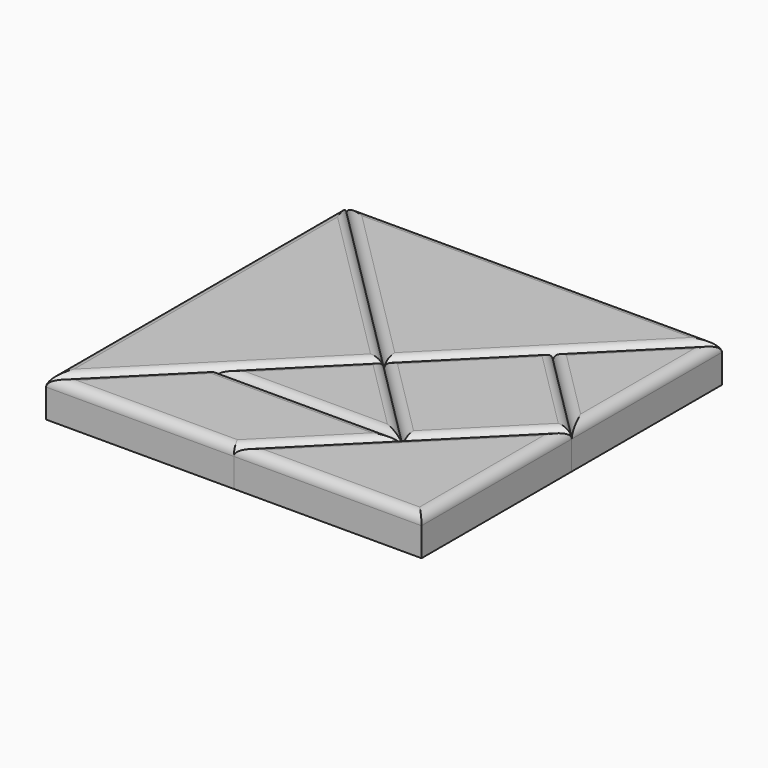
from build123d import *

# Parameters (mm, degrees)
F1_DEPTH  = 12.7
F2_DEPTH  = 12.7
F3_DEPTH  = 12.7
F4_DEPTH  = 12.7
F5_DEPTH  = 12.7
F6_DEPTH  = 12.7
F7_DEPTH  = 12.7
F8_R      = 3.175
F8_2_R    = 3.175
F8_3_R    = 3.175
F8_4_R    = 3.175
F8_5_R    = 3.175
F8_6_R    = 3.175
F8_7_R    = 3.175
F12_R     = 4
F16_DEPTH = 1
F9_R      = 4
F17_DEPTH = 1
F15_R     = 4
F18_DEPTH = 1
F10_R     = 4
F19_DEPTH = 1
F11_R     = 4
F20_DEPTH = 1
F14_R     = 4
F21_DEPTH = 1
F13_R     = 4
F22_DEPTH = 1
F23_DEPTH = 2.5


with BuildPart() as f1:
    # F0 (on Top) → F1 (new body)
    with BuildSketch(Plane.XY):
        Polygon((-62.5, 62.5), (-62.5, -62.5), (-31.25, -31.25), (0, 0), align=None)
    extrude(amount=F1_DEPTH)

    # F8
    f8_edges = [f1.edges().sort_by_distance(p)[0] for p in [
        (-31.25, 31.25, 12.7),
        (-62.5, 0, 12.7),
        (-31.25, -31.25, 12.7),
    ]]
    fillet(f8_edges, radius=F8_R)

    # F12 (on face) → F16 (cut)
    with BuildSketch(Plane(origin=(0, 0, 0), x_dir=(1, 0, 0), z_dir=(0, 0, -1))):
        with Locations((-52.5, 38.3578643763)):
            Circle(F12_R)
        with Locations((-14.1421356237, 0)):
            Circle(F12_R)
        with Locations((-52.5, -38.3578643763)):
            Circle(F12_R)
    extrude(amount=-F16_DEPTH, mode=Mode.SUBTRACT)


with BuildPart() as f2:
    # F0 (on Top) → F2 (new body)
    with BuildSketch(Plane.XY):
        Polygon((31.25, 31.25), (62.5, 62.5), (-62.5, 62.5), (0, 0), align=None)
    extrude(amount=F2_DEPTH)

    # F8#2
    f8_2_edges = [f2.edges().sort_by_distance(p)[0] for p in [
        (-31.25, 31.25, 12.7),
        (31.25, 31.25, 12.7),
        (0, 62.5, 12.7),
    ]]
    fillet(f8_2_edges, radius=F8_2_R)

    # F9 (on face) → F17 (cut)
    with BuildSketch(Plane(origin=(0, 0, 0), x_dir=(1, 0, 0), z_dir=(0, 0, -1))):
        with Locations((0, -14.1421356237)):
            Circle(F9_R)
        with Locations((-38.3578643763, -52.5)):
            Circle(F9_R)
        with Locations((38.3578643763, -52.5)):
            Circle(F9_R)
    extrude(amount=-F17_DEPTH, mode=Mode.SUBTRACT)


with BuildPart() as f3:
    # F0 (on Top) → F3 (new body)
    with BuildSketch(Plane.XY):
        Polygon((-62.5, -62.5), (0, -62.5), (31.25, -31.25), (-31.25, -31.25), align=None)
    extrude(amount=F3_DEPTH)

    # F8#3
    f8_3_edges = [f3.edges().sort_by_distance(p)[0] for p in [
        (-46.875, -46.875, 12.7),
        (-31.25, -62.5, 12.7),
        (15.625, -46.875, 12.7),
        (0, -31.25, 12.7),
    ]]
    fillet(f8_3_edges, radius=F8_3_R)

    # F14 (on face) → F21 (cut)
    with BuildSketch(Plane(origin=(0, 0, 0), x_dir=(1, 0, 0), z_dir=(0, 0, -1))):
        with Locations((-27.936291501, 39.25)):
            Circle(F14_R)
        with Locations((-43.186291501, 54.5)):
            Circle(F14_R)
        with Locations((-3.313708499, 54.5)):
            Circle(F14_R)
        with Locations((11.936291501, 39.25)):
            Circle(F14_R)
    extrude(amount=-F21_DEPTH, mode=Mode.SUBTRACT)


with BuildPart() as f4:
    # F0 (on Top) → F4 (new body)
    with BuildSketch(Plane.XY):
        Polygon((-31.25, -31.25), (31.25, -31.25), (0, 0), align=None)
    extrude(amount=F4_DEPTH)

    # F8#4
    f8_4_edges = [f4.edges().sort_by_distance(p)[0] for p in [
        (0, -31.25, 12.7),
        (15.625, -15.625, 12.7),
        (-15.625, -15.625, 12.7),
    ]]
    fillet(f8_4_edges, radius=F8_4_R)

    # F11 (on face) → F20 (cut)
    with BuildSketch(Plane(origin=(0, 0, 0), x_dir=(1, 0, 0), z_dir=(0, 0, -1))):
        with Locations((-11.936291501, 23.25)):
            Circle(F11_R)
        with Locations((0, 11.313708499)):
            Circle(F11_R)
        with Locations((11.936291501, 23.25)):
            Circle(F11_R)
    extrude(amount=-F20_DEPTH, mode=Mode.SUBTRACT)


with BuildPart() as f5:
    # F0 (on Top) → F5 (new body)
    with BuildSketch(Plane.XY):
        Polygon((31.25, -31.25), (62.5, 0), (31.25, 31.25), (0, 0), align=None)
    extrude(amount=F5_DEPTH)

    # F8#5
    f8_5_edges = [f5.edges().sort_by_distance(p)[0] for p in [
        (15.625, -15.625, 12.7),
        (46.875, -15.625, 12.7),
        (46.875, 15.625, 12.7),
        (15.625, 15.625, 12.7),
    ]]
    fillet(f8_5_edges, radius=F8_5_R)

    # F10 (on face) → F19 (cut)
    with BuildSketch(Plane(origin=(0, 0, 0), x_dir=(1, 0, 0), z_dir=(0, 0, -1))):
        with Locations((14.1421356237, 0)):
            Circle(F10_R)
        with Locations((31.25, 17.1078643763)):
            Circle(F10_R)
        with Locations((48.3578643763, 0)):
            Circle(F10_R)
        with Locations((31.25, -17.1078643763)):
            Circle(F10_R)
    extrude(amount=-F19_DEPTH, mode=Mode.SUBTRACT)


with BuildPart() as f6:
    # F0 (on Top) → F6 (new body)
    with BuildSketch(Plane.XY):
        Polygon((0, -62.5), (62.5, -62.5), (62.5, 0), (31.25, -31.25), align=None)
    extrude(amount=F6_DEPTH)

    # F8#6
    f8_6_edges = [f6.edges().sort_by_distance(p)[0] for p in [
        (31.25, -62.5, 12.7),
        (62.5, -31.25, 12.7),
        (31.25, -31.25, 12.7),
    ]]
    fillet(f8_6_edges, radius=F8_6_R)

    # F13 (on face) → F22 (cut)
    with BuildSketch(Plane(origin=(0, 0, 0), x_dir=(1, 0, 0), z_dir=(0, 0, -1))):
        with Locations((24.1421356237, 52.5)):
            Circle(F13_R)
        with Locations((52.5, 52.5)):
            Circle(F13_R)
        with Locations((52.5, 24.1421356237)):
            Circle(F13_R)
    extrude(amount=-F22_DEPTH, mode=Mode.SUBTRACT)


with BuildPart() as f7:
    # F0 (on Top) → F7 (new body)
    with BuildSketch(Plane.XY):
        Polygon((31.25, 31.25), (62.5, 0), (62.5, 62.5), align=None)
    extrude(amount=F7_DEPTH)

    # F8#7
    f8_7_edges = [f7.edges().sort_by_distance(p)[0] for p in [
        (46.875, 15.625, 12.7),
        (62.5, 31.25, 12.7),
        (46.875, 46.875, 12.7),
    ]]
    fillet(f8_7_edges, radius=F8_7_R)

    # F15 (on face) → F18 (cut)
    with BuildSketch(Plane(origin=(0, 0, 0), x_dir=(1, 0, 0), z_dir=(0, 0, -1))):
        with Locations((42.563708499, -31.25)):
            Circle(F15_R)
        with Locations((54.5, -19.313708499)):
            Circle(F15_R)
        with Locations((54.5, -43.186291501)):
            Circle(F15_R)
    extrude(amount=-F18_DEPTH, mode=Mode.SUBTRACT)


with BuildPart() as f23:
    # F23 (new): a face of the model
    f23_faces = [f1.part.faces().sort_by_distance(p)[0] for p in [
        (-52.5, -38.3578643763, 1),
    ]]
    extrude(f23_faces, amount=F23_DEPTH)


with BuildPart() as f23b:
    # F23#2 (new): a face of the model
    f23_2_faces = [f1.part.faces().sort_by_distance(p)[0] for p in [
        (-14.1421356237, 0, 1),
    ]]
    extrude(f23_2_faces, amount=F23_DEPTH)


with BuildPart() as f23c:
    # F23#3 (new): a face of the model
    f23_3_faces = [f1.part.faces().sort_by_distance(p)[0] for p in [
        (-52.5, 38.3578643763, 1),
    ]]
    extrude(f23_3_faces, amount=F23_DEPTH)


with BuildPart() as f23d:
    # F23#4 (new): a face of the model
    f23_4_faces = [f2.part.faces().sort_by_distance(p)[0] for p in [
        (-38.3578643763, 52.5, 1),
    ]]
    extrude(f23_4_faces, amount=F23_DEPTH)


with BuildPart() as f23e:
    # F23#5 (new): a face of the model
    f23_5_faces = [f2.part.faces().sort_by_distance(p)[0] for p in [
        (0, 14.1421356237, 1),
    ]]
    extrude(f23_5_faces, amount=F23_DEPTH)


with BuildPart() as f23f:
    # F23#6 (new): a face of the model
    f23_6_faces = [f2.part.faces().sort_by_distance(p)[0] for p in [
        (38.3578643763, 52.5, 1),
    ]]
    extrude(f23_6_faces, amount=F23_DEPTH)


with BuildPart() as f23g:
    # F23#7 (new): a face of the model
    f23_7_faces = [f7.part.faces().sort_by_distance(p)[0] for p in [
        (54.5, 43.186291501, 1),
    ]]
    extrude(f23_7_faces, amount=F23_DEPTH)


with BuildPart() as f23h:
    # F23#8 (new): a face of the model
    f23_8_faces = [f7.part.faces().sort_by_distance(p)[0] for p in [
        (42.563708499, 31.25, 1),
    ]]
    extrude(f23_8_faces, amount=F23_DEPTH)


with BuildPart() as f23i:
    # F23#9 (new): a face of the model
    f23_9_faces = [f7.part.faces().sort_by_distance(p)[0] for p in [
        (54.5, 19.313708499, 1),
    ]]
    extrude(f23_9_faces, amount=F23_DEPTH)


with BuildPart() as f23j:
    # F23#10 (new): a face of the model
    f23_10_faces = [f5.part.faces().sort_by_distance(p)[0] for p in [
        (48.3578643763, 0, 1),
    ]]
    extrude(f23_10_faces, amount=F23_DEPTH)


with BuildPart() as f23k:
    # F23#11 (new): a face of the model
    f23_11_faces = [f5.part.faces().sort_by_distance(p)[0] for p in [
        (31.25, 17.1078643763, 1),
    ]]
    extrude(f23_11_faces, amount=F23_DEPTH)


with BuildPart() as f23l:
    # F23#12 (new): a face of the model
    f23_12_faces = [f5.part.faces().sort_by_distance(p)[0] for p in [
        (14.1421356237, 0, 1),
    ]]
    extrude(f23_12_faces, amount=F23_DEPTH)


with BuildPart() as f23m:
    # F23#13 (new): a face of the model
    f23_13_faces = [f5.part.faces().sort_by_distance(p)[0] for p in [
        (31.25, -17.1078643763, 1),
    ]]
    extrude(f23_13_faces, amount=F23_DEPTH)


with BuildPart() as f23n:
    # F23#14 (new): a face of the model
    f23_14_faces = [f6.part.faces().sort_by_distance(p)[0] for p in [
        (52.5, -24.1421356237, 1),
    ]]
    extrude(f23_14_faces, amount=F23_DEPTH)


with BuildPart() as f23o:
    # F23#15 (new): a face of the model
    f23_15_faces = [f6.part.faces().sort_by_distance(p)[0] for p in [
        (52.5, -52.5, 1),
    ]]
    extrude(f23_15_faces, amount=F23_DEPTH)


with BuildPart() as f23p:
    # F23#16 (new): a face of the model
    f23_16_faces = [f6.part.faces().sort_by_distance(p)[0] for p in [
        (24.1421356237, -52.5, 1),
    ]]
    extrude(f23_16_faces, amount=F23_DEPTH)


with BuildPart() as f23q:
    # F23#17 (new): a face of the model
    f23_17_faces = [f3.part.faces().sort_by_distance(p)[0] for p in [
        (11.936291501, -39.25, 1),
    ]]
    extrude(f23_17_faces, amount=F23_DEPTH)


with BuildPart() as f23r:
    # F23#18 (new): a face of the model
    f23_18_faces = [f3.part.faces().sort_by_distance(p)[0] for p in [
        (-3.313708499, -54.5, 1),
    ]]
    extrude(f23_18_faces, amount=F23_DEPTH)


with BuildPart() as f23s:
    # F23#19 (new): a face of the model
    f23_19_faces = [f4.part.faces().sort_by_distance(p)[0] for p in [
        (11.936291501, -23.25, 1),
    ]]
    extrude(f23_19_faces, amount=F23_DEPTH)


with BuildPart() as f23t:
    # F23#20 (new): a face of the model
    f23_20_faces = [f4.part.faces().sort_by_distance(p)[0] for p in [
        (0, -11.313708499, 1),
    ]]
    extrude(f23_20_faces, amount=F23_DEPTH)


with BuildPart() as f23u:
    # F23#21 (new): a face of the model
    f23_21_faces = [f4.part.faces().sort_by_distance(p)[0] for p in [
        (-11.936291501, -23.25, 1),
    ]]
    extrude(f23_21_faces, amount=F23_DEPTH)


with BuildPart() as f23v:
    # F23#22 (new): a face of the model
    f23_22_faces = [f3.part.faces().sort_by_distance(p)[0] for p in [
        (-27.936291501, -39.25, 1),
    ]]
    extrude(f23_22_faces, amount=F23_DEPTH)


with BuildPart() as f23w:
    # F23#23 (new): a face of the model
    f23_23_faces = [f3.part.faces().sort_by_distance(p)[0] for p in [
        (-43.186291501, -54.5, 1),
    ]]
    extrude(f23_23_faces, amount=F23_DEPTH)


solid = Compound([f1.part, f2.part, f3.part, f4.part, f5.part, f6.part, f7.part, f23.part, f23b.part, f23c.part, f23d.part, f23e.part, f23f.part, f23g.part, f23h.part, f23i.part, f23j.part, f23k.part, f23l.part, f23m.part, f23n.part, f23o.part, f23p.part, f23q.part, f23r.part, f23s.part, f23t.part, f23u.part, f23v.part, f23w.part])
